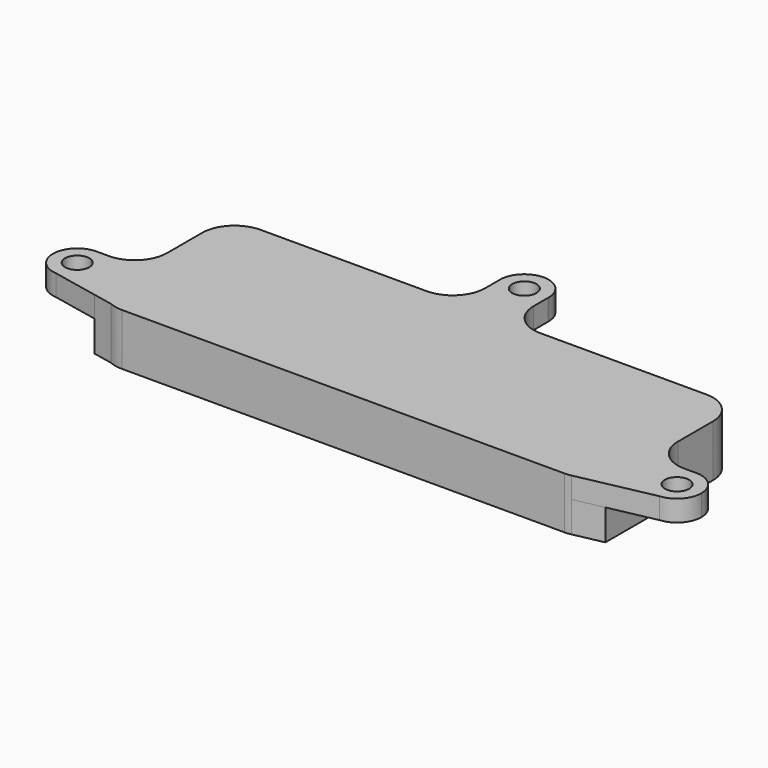
from build123d import *

# Parameters (mm, degrees)
F0_R     = 1.905
F1_DEPTH = 3.302
F3_DEPTH = 4.826
F5_DEPTH = 4.826


with BuildPart() as f1:
    # F0 (on Top) → F1 (new body)
    with BuildSketch(Plane.XY):
        with BuildLine():
            Line((-8.88014, 13.589), (-34.925, 13.589))
            ThreePointArc((-34.925, 13.589), (-38.517102, 12.101102), (-40.005, 8.509))
            Line((-40.005, 8.509), (-40.005, 1.650725))
            Line((-40.005, 1.650725), (-40.005, -12.540665))
            Line((-40.005, -12.540665), (-36.936027, -13.173994))
            ThreePointArc((-36.936027, -13.173994), (-35.951701, -13.484167), (-34.925, -13.589))
            Line((-34.925, -13.589), (34.406297, -13.589))
            ThreePointArc((34.406297, -13.589), (34.922317, -13.562724), (35.432998, -13.484167))
            Line((35.432998, -13.484167), (47.290979, -11.037093))
            ThreePointArc((47.290979, -11.037093), (43.183951, -7.412463), (46.944249, -3.429275))
            Line((46.944249, -3.429275), (45.085, -3.429275))
            ThreePointArc((45.085, -3.429275), (41.492898, -1.941377), (40.005, 1.650725))
            Line((40.005, 1.650725), (40.005, 8.509))
            ThreePointArc((40.005, 8.509), (38.517102, 12.101102), (34.925, 13.589))
            Line((34.925, 13.589), (8.88014, 13.589))
            ThreePointArc((8.88014, 13.589), (5.288038, 15.076898), (3.80014, 18.669))
            Line((3.80014, 18.669), (3.80014, 21.459575))
            ThreePointArc((3.80014, 21.459575), (0, 17.787622), (-3.80014, 21.459575))
            Line((-3.80014, 21.459575), (-3.80014, 18.669))
            ThreePointArc((-3.80014, 18.669), (-5.288038, 15.076898), (-8.88014, 13.589))
        make_face()
        with BuildLine():
            Line((-40.005, -12.540665), (-40.005, 1.650725))
            ThreePointArc((-40.005, 1.650725), (-41.492898, -1.941377), (-45.085, -3.429275))
            Line((-45.085, -3.429275), (-46.944249, -3.429275))
            ThreePointArc((-46.944249, -3.429275), (-44.279796, -4.561147), (-43.18, -7.239))
            ThreePointArc((-43.18, -7.239), (-44.404524, -10.037467), (-47.290979, -11.037093))
            Line((-47.290979, -11.037093), (-40.005, -12.540665))
        make_face()
        with BuildLine():
            Line((-3.80014, 21.720425), (-3.80014, 21.459575))
            ThreePointArc((-3.80014, 21.459575), (0, 17.787622), (3.80014, 21.459575))
            Line((3.80014, 21.459575), (3.80014, 21.720425))
            ThreePointArc((3.80014, 21.720425), (0, 25.392378), (-3.80014, 21.720425))
        make_face()
        with Locations((0, 21.59)):
            Circle(F0_R, mode=Mode.SUBTRACT)
        with BuildLine():
            ThreePointArc((-3.80014, 21.720425), (-3.802378, 21.59), (-3.80014, 21.459575))
            Line((-3.80014, 21.459575), (-3.80014, 21.720425))
        make_face()
        with BuildLine():
            Line((3.80014, 21.720425), (3.80014, 21.459575))
            ThreePointArc((3.80014, 21.459575), (3.801818, 21.524778), (3.802378, 21.59))
            ThreePointArc((3.802378, 21.59), (3.801818, 21.655222), (3.80014, 21.720425))
        make_face()
        with BuildLine():
            Line((-47.035751, -3.429275), (-46.944249, -3.429275))
            ThreePointArc((-46.944249, -3.429275), (-46.99, -3.429), (-47.035751, -3.429275))
        make_face()
        with BuildLine():
            ThreePointArc((-43.18, -7.239), (-44.279796, -4.561147), (-46.944249, -3.429275))
            Line((-46.944249, -3.429275), (-47.035751, -3.429275))
            ThreePointArc((-47.035751, -3.429275), (-50.797858, -7.111254), (-47.290979, -11.037093))
            ThreePointArc((-47.290979, -11.037093), (-44.404524, -10.037467), (-43.18, -7.239))
        make_face()
        with Locations((-46.99, -7.239)):
            Circle(F0_R, mode=Mode.SUBTRACT)
        with BuildLine():
            ThreePointArc((46.944249, -3.429275), (43.183951, -7.412463), (47.290979, -11.037093))
            ThreePointArc((47.290979, -11.037093), (49.788467, -9.824476), (50.8, -7.239))
            ThreePointArc((50.8, -7.239), (49.700204, -4.561147), (47.035751, -3.429275))
            Line((47.035751, -3.429275), (46.944249, -3.429275))
        make_face()
        with Locations((46.99, -7.239)):
            Circle(F0_R, mode=Mode.SUBTRACT)
        with BuildLine():
            ThreePointArc((47.035751, -3.429275), (46.99, -3.429), (46.944249, -3.429275))
            Line((46.944249, -3.429275), (47.035751, -3.429275))
        make_face()
    extrude(amount=F1_DEPTH)

    # F2 (on face) → F3 (join)
    with BuildSketch(Plane(origin=(0, 0, 0), x_dir=(1, 0, 0), z_dir=(0, 0, -1))):
        with BuildLine():
            Line((-40.005, -1.650725), (-40.005, -5.079863))
            Line((-40.005, -5.079863), (-40.005, -8.509))
            ThreePointArc((-40.005, -8.509), (-38.517102, -12.101102), (-34.925, -13.589))
            Line((-34.925, -13.589), (-13.131685, -13.589))
            Line((-13.131685, -13.589), (-8.88014, -13.589))
            Line((-8.88014, -13.589), (8.88014, -13.589))
            Line((8.88014, -13.589), (9.643361, -13.589))
            Line((9.643361, -13.589), (34.925, -13.589))
            ThreePointArc((34.925, -13.589), (38.517102, -12.101102), (40.005, -8.509))
            Line((40.005, -8.509), (40.005, -5.079863))
            Line((40.005, -5.079863), (40.005, -1.650725))
            Line((40.005, -1.650725), (40.005, 12.540665))
            Line((40.005, 12.540665), (35.432998, 13.484167))
            ThreePointArc((35.432998, 13.484167), (34.922317, 13.562724), (34.406297, 13.589))
            Line((34.406297, 13.589), (-34.925, 13.589))
            ThreePointArc((-34.925, 13.589), (-35.951701, 13.484167), (-36.936027, 13.173994))
            Line((-36.936027, 13.173994), (-40.005, 12.540665))
            Line((-40.005, 12.540665), (-40.005, -1.650725))
        make_face()
    extrude(amount=F3_DEPTH)

    # F4 (on face) → F5 (cut)
    with BuildSketch(Plane(origin=(0, 0, -4.826), x_dir=(1, 0, 0), z_dir=(0, 0, -1))):
        with BuildLine():
            ThreePointArc((-34.955431, 4.09772), (-34.583456, 3.199695), (-33.685431, 2.82772))
            Line((-33.685431, 2.82772), (-3.716994, 2.82772))
            ThreePointArc((-3.716994, 2.82772), (-2.818968, 3.199695), (-2.446994, 4.09772))
            Line((-2.446994, 4.09772), (-2.446994, 9.376206))
            ThreePointArc((-2.446994, 9.376206), (-2.818968, 10.274232), (-3.716994, 10.646206))
            Line((-3.716994, 10.646206), (-33.685431, 10.646206))
            ThreePointArc((-33.685431, 10.646206), (-34.583456, 10.274232), (-34.955431, 9.376206))
            Line((-34.955431, 9.376206), (-34.955431, 4.09772))
        make_face()
        with BuildLine():
            ThreePointArc((3.716994, 10.646206), (2.818968, 10.274232), (2.446994, 9.376206))
            Line((2.446994, 9.376206), (2.446994, 4.09772))
            ThreePointArc((2.446994, 4.09772), (2.818968, 3.199695), (3.716994, 2.82772))
            Line((3.716994, 2.82772), (33.685431, 2.82772))
            ThreePointArc((33.685431, 2.82772), (34.583456, 3.199695), (34.955431, 4.09772))
            Line((34.955431, 4.09772), (34.955431, 9.376206))
            ThreePointArc((34.955431, 9.376206), (34.583456, 10.274232), (33.685431, 10.646206))
            Line((33.685431, 10.646206), (3.716994, 10.646206))
        make_face()
        with BuildLine():
            Line((-3.716994, -2.82772), (-33.685431, -2.82772))
            ThreePointArc((-33.685431, -2.82772), (-34.583456, -3.199695), (-34.955431, -4.09772))
            Line((-34.955431, -4.09772), (-34.955431, -9.376206))
            ThreePointArc((-34.955431, -9.376206), (-34.583456, -10.274232), (-33.685431, -10.646206))
            Line((-33.685431, -10.646206), (-3.716994, -10.646206))
            ThreePointArc((-3.716994, -10.646206), (-2.818968, -10.274232), (-2.446994, -9.376206))
            Line((-2.446994, -9.376206), (-2.446994, -4.09772))
            ThreePointArc((-2.446994, -4.09772), (-2.818968, -3.199695), (-3.716994, -2.82772))
        make_face()
        with BuildLine():
            Line((2.446994, -4.09772), (2.446994, -9.376206))
            ThreePointArc((2.446994, -9.376206), (2.818968, -10.274232), (3.716994, -10.646206))
            Line((3.716994, -10.646206), (33.685431, -10.646206))
            ThreePointArc((33.685431, -10.646206), (34.583456, -10.274232), (34.955431, -9.376206))
            Line((34.955431, -9.376206), (34.955431, -4.09772))
            ThreePointArc((34.955431, -4.09772), (34.583456, -3.199695), (33.685431, -2.82772))
            Line((33.685431, -2.82772), (3.716994, -2.82772))
            ThreePointArc((3.716994, -2.82772), (2.818968, -3.199695), (2.446994, -4.09772))
        make_face()
    extrude(amount=-F5_DEPTH, mode=Mode.SUBTRACT)


solid = f1.part
